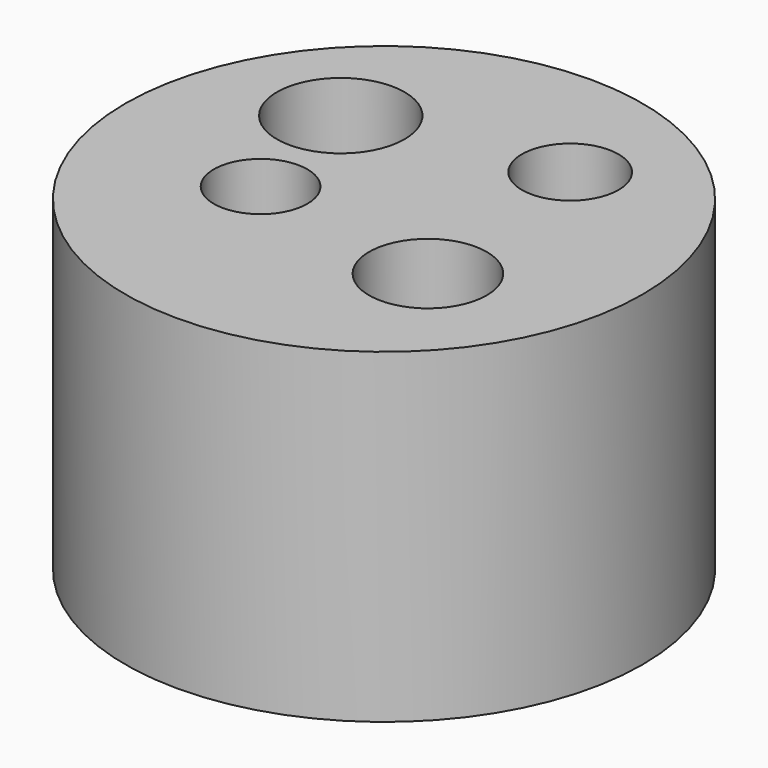
from build123d import *

# Parameters (mm, degrees)
F0_R     = 20.157453
F1_DEPTH = 25.4
F2_R     = 3.767943
F2_R_2   = 4.975936
F2_R_3   = 4.587244
F2_R_4   = 3.646097
F3_DEPTH = 25.4


with BuildPart() as f1:
    # F0 (on Top) → F1 (new body)
    with BuildSketch(Plane.XY):
        Circle(F0_R)
    extrude(amount=F1_DEPTH)

    # F2 (on face) → F3 (cut)
    with BuildSketch(Plane.XY.offset(25.4)):
        with Locations((6.638267, 9.84558)):
            Circle(F2_R)
        with Locations((-8.913759, 6.92729)):
            Circle(F2_R_2)
        with Locations((8.236198, -6.017039)):
            Circle(F2_R_3)
        with Locations((-6.887133, -3.415893)):
            Circle(F2_R_4)
    extrude(amount=-F3_DEPTH, mode=Mode.SUBTRACT)


solid = f1.part
